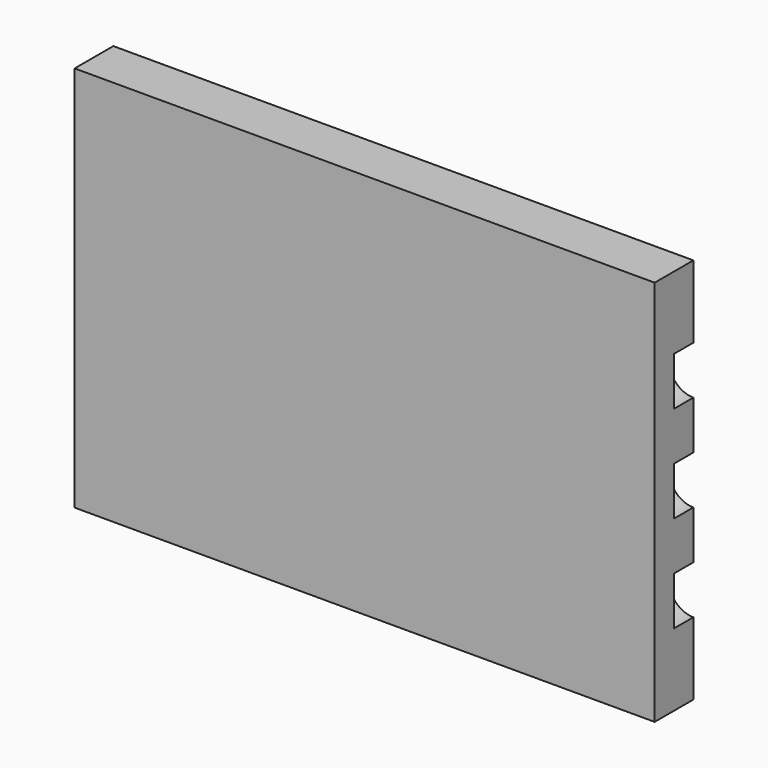
from build123d import *

# Parameters (mm, degrees)
F0_W     = 152.4
F0_H     = 101.6
F1_DEPTH = 12.7
F2_W     = 146.05
F2_H     = 6.35
F3_DEPTH = 6.35
F5_DEPTH = 6.35


with BuildPart() as f1:
    # F0 (on Front) → F1 (new body)
    with BuildSketch(Plane.XZ):
        Rectangle(F0_W, F0_H)
        Rectangle(F0_W, F0_H)
    extrude(amount=F1_DEPTH)

    # F2 (on face) → F3 (cut)
    with BuildSketch(Plane(origin=(0, 0, 0), x_dir=(-1, 0, 0), z_dir=(0, 1, 0))):
        with Locations((0, -41.275)):
            Rectangle(F2_W, F2_H)
    extrude(amount=-F3_DEPTH, mode=Mode.SUBTRACT)

    # F4 (on face) → F5 (cut)
    with BuildSketch(Plane(origin=(0, 0, 0), x_dir=(-1, 0, 0), z_dir=(0, 1, 0))):
        with BuildLine():
            Line((76.2, 19.05), (76.2, 31.75))
            ThreePointArc((76.2, 31.75), (69.85, 25.4), (76.2, 19.05))
        make_face()
        with BuildLine():
            Line((76.2, -6.35), (76.2, 6.35))
            ThreePointArc((76.2, 6.35), (69.85, 0), (76.2, -6.35))
        make_face()
        with BuildLine():
            ThreePointArc((76.2, -19.05), (69.85, -25.4), (76.2, -31.75))
            Line((76.2, -31.75), (76.2, -19.05))
        make_face()
        with BuildLine():
            ThreePointArc((-76.2, -31.75), (-69.85, -25.4), (-76.2, -19.05))
            Line((-76.2, -19.05), (-76.2, -31.75))
        make_face()
        with BuildLine():
            ThreePointArc((-76.2, -6.35), (-69.85, 0), (-76.2, 6.35))
            Line((-76.2, 6.35), (-76.2, -6.35))
        make_face()
        with BuildLine():
            Line((-76.2, 31.75), (-76.2, 19.05))
            ThreePointArc((-76.2, 19.05), (-69.85, 25.4), (-76.2, 31.75))
        make_face()
    extrude(amount=-F5_DEPTH, mode=Mode.SUBTRACT)


solid = f1.part
